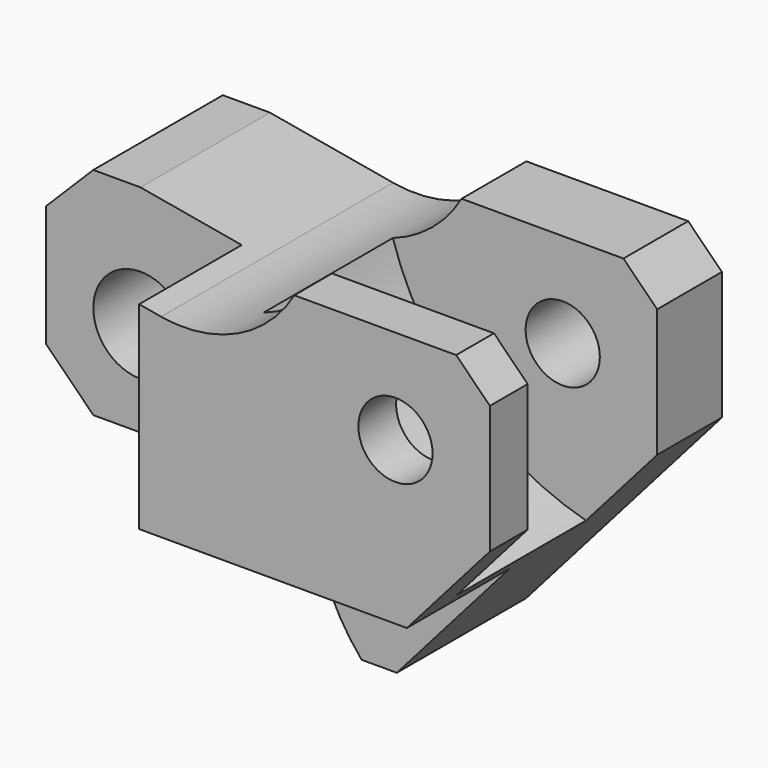
from build123d import *

# Parameters (mm, degrees)
F0_R     = 7
F1_DEPTH = 21.5
F2_R     = 5.5
F3_DEPTH = 43.001
F2_R_2   = 7
F4_DEPTH = 19
F6_R     = 5.5
F7_DEPTH = 12


with BuildPart() as f1:
    # F0 (on Front) → F1 (new body, symmetric)
    with BuildSketch(Plane.XZ):
        with BuildLine():
            Line((-14, 11), (-14, -7))
            Line((-14, -7), (-7, -14))
            Line((-7, -14), (21.0666262554, -14))
            ThreePointArc((21.0666262554, -14), (24.3318620364, -15.2134137678), (26.0122649968, -18.2647058824))
            ThreePointArc((26.0122649968, -18.2647058824), (28.3490951999, -26.115672061), (32.7880673968, -33))
            Line((32.7880673968, -33), (38, -33))
            Line((38, -33), (67, 0))
            Line((67, 0), (67, 19))
            Line((67, 19), (62, 24))
            Line((62, 24), (38, 24))
            ThreePointArc((38, 24), (29.5749729609, 16.2760691513), (18.2430849879, 14.7832519053))
            Line((18.2430849879, 14.7832519053), (0, 18))
            Line((0, 18), (-7, 18))
            Line((-7, 18), (-14, 11))
        make_face()
        Circle(F0_R, mode=Mode.SUBTRACT)
    extrude(amount=F1_DEPTH, both=True)

    # F2 (on face) → F3 (cut, through all)
    with BuildSketch(Plane.XZ.offset(21.5)):
        with Locations((53, 10)):
            Circle(F2_R)
    extrude(amount=-F3_DEPTH, mode=Mode.SUBTRACT)

    # F2 (on face) → F4 (cut)
    with BuildSketch(Plane.XZ.offset(21.5)):
        Polygon((15, -14), (15, 15.3550952894), (0, 18), (-7, 18), (-14, 11), (-14, -7), (-7, -14), align=None)
        Circle(F2_R_2, mode=Mode.SUBTRACT)
        with BuildLine():
            Line((54.696969697, -14), (21.0666262554, -14))
            ThreePointArc((21.0666262554, -14), (24.3318620364, -15.2134137678), (26.0122649968, -18.2647058824))
            ThreePointArc((26.0122649968, -18.2647058824), (28.3490951999, -26.115672061), (32.7880673968, -33))
            Line((32.7880673968, -33), (38, -33))
            Line((38, -33), (54.696969697, -14))
        make_face()
    extrude(amount=-F4_DEPTH, mode=Mode.SUBTRACT)

    # F6 (on offset) → F7 (cut, symmetric)
    with BuildSketch(Plane.XZ.offset(2.5)):
        with BuildLine():
            Line((67, 19), (62, 24))
            Line((62, 24), (38, 24))
            ThreePointArc((38, 24), (33.6653533969, 18.864697991), (27.8141459246, 15.5595718187))
            ThreePointArc((27.8141459246, 15.5595718187), (38.5714357733, -1.9228537457), (56.4545454545, -12))
            Line((56.4545454545, -12), (67, 0))
            Line((67, 0), (67, 19))
        make_face()
        with Locations((53, 10)):
            Circle(F6_R, mode=Mode.SUBTRACT)
    extrude(amount=F7_DEPTH, both=True, mode=Mode.SUBTRACT)


solid = f1.part
